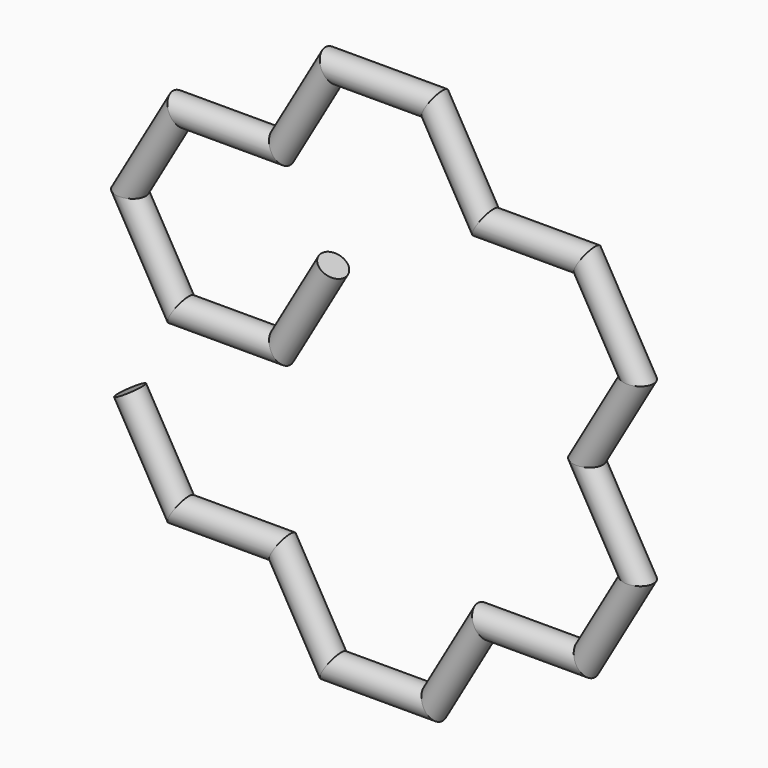
from build123d import *

# Parameters (mm, degrees)
F1_R = 1.5875


with BuildPart() as f2:
    # F2: sweep along a path in F0
    with BuildLine(Plane.XZ) as f2_path:
        Line((11.8399050113, 20.5073170364), (5.9199525057, 10.2536585182))
        Line((5.9199525057, 10.2536585182), (-5.9199525057, 10.2536585182))
        Line((-5.9199525057, 10.2536585182), (-11.8399050113, 20.5073170364))
        Line((-11.8399050113, 20.5073170364), (-5.9199525057, 30.7609755546))
        Line((-5.9199525057, 30.7609755546), (5.9199525057, 30.7609755546))
        Line((5.9199525057, 30.7609755546), (11.8399050113, 41.0146340728))
        Line((11.8399050113, 41.0146340728), (23.6798100226, 41.0146340728))
        Line((23.6798100226, 41.0146340728), (29.5997625283, 30.7609755546))
        Line((29.5997625283, 30.7609755546), (41.4396675396, 30.7609755546))
        Line((41.4396675396, 30.7609755546), (47.3596200453, 20.5073170364))
        Line((47.3596200453, 20.5073170364), (41.4396675396, 10.2536585182))
        Line((41.4396675396, 10.2536585182), (47.3596200453, 0))
        Line((47.3596200453, 0), (41.4396675396, -10.2536585182))
        Line((41.4396675396, -10.2536585182), (29.5997625283, -10.2536585182))
        Line((29.5997625283, -10.2536585182), (23.6798100226, -20.5073170364))
        Line((23.6798100226, -20.5073170364), (11.8399050113, -20.5073170364))
        Line((11.8399050113, -20.5073170364), (5.9199525057, -10.2536585182))
        Line((5.9199525057, -10.2536585182), (-5.9199525057, -10.2536585182))
        Line((-5.9199525057, -10.2536585182), (-11.8399050113, 0))
    # F1 (on Right) → F2 (sweep)
    with BuildSketch(Plane.YZ):
        with Locations((0, 10.2536585182)):
            Circle(F1_R)
    sweep(path=f2_path.line, transition=Transition.RIGHT)


solid = f2.part
